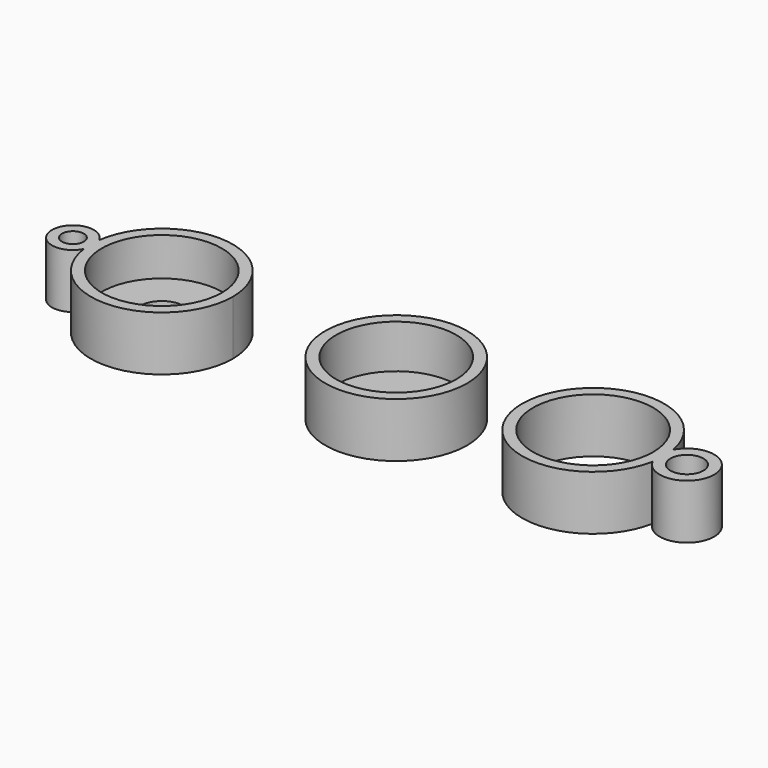
from build123d import *

# Parameters (mm, degrees)
F0_R     = 11
F1_DEPTH = 10
F0_R_2   = 4
F2_DEPTH = 3
F0_R_3   = 2
F3_DEPTH = 10
F4_R     = 13
F4_R_2   = 11
F5_DEPTH = 10
F6_DEPTH = 2
F7_R     = 11
F7_R_2   = 3.012629
F8_DEPTH = 10


with BuildPart() as f1:
    # F0 (on Top) → F1 (new body)
    with BuildSketch(Plane.XY):
        with BuildLine():
            ThreePointArc((-55.811908, -1.758521), (-42.050108, -12.970094), (-29.931396, 0))
            ThreePointArc((-29.931396, 0), (-42.041014, 12.969473), (-55.80943, 1.776582))
            ThreePointArc((-55.80943, 1.776582), (-55.931393, 0.009115), (-55.811908, -1.758521))
        make_face()
        with Locations((-42.931396, 0)):
            Circle(F0_R, mode=Mode.SUBTRACT)
    extrude(amount=F1_DEPTH)

    # F0 (on Top) → F2 (join)
    with BuildSketch(Plane.XY):
        with Locations((-42.931396, 0)):
            Circle(F0_R)
        with Locations((-42.931396, 0)):
            Circle(F0_R_2, mode=Mode.SUBTRACT)
    extrude(amount=F2_DEPTH)

    # F0 (on Top) → F3 (join)
    with BuildSketch(Plane.XY):
        with BuildLine():
            ThreePointArc((-55.811908, -1.758521), (-55.931393, 0.009115), (-55.80943, 1.776582))
            ThreePointArc((-55.80943, 1.776582), (-63.056532, 0.014111), (-55.811908, -1.758521))
        make_face()
        with Locations((-59.218013, 0.011419)):
            Circle(F0_R_3, mode=Mode.SUBTRACT)
    extrude(amount=F3_DEPTH)


with BuildPart() as f5:
    # F4 (on Top) → F5 (new body)
    with BuildSketch(Plane.XY):
        Circle(F4_R)
        Circle(F4_R_2, mode=Mode.SUBTRACT)
    extrude(amount=F5_DEPTH)

    # F4 (on Top) → F6 (join)
    with BuildSketch(Plane.XY):
        Circle(F4_R_2)
    extrude(amount=F6_DEPTH)


with BuildPart() as f8:
    # F7 (on Top) → F8 (new body)
    with BuildSketch(Plane.XY):
        with BuildLine():
            ThreePointArc((48.847508, -2.365263), (49.010131, -1.187598), (49.06449, 0))
            ThreePointArc((49.06449, 0), (49.011149, 1.176448), (48.851563, 2.343241))
            ThreePointArc((48.851563, 2.343241), (23.064495, 0.011196), (48.847508, -2.365263))
        make_face()
        with Locations((36.06449, 0)):
            Circle(F7_R, mode=Mode.SUBTRACT)
        with BuildLine():
            ThreePointArc((48.851563, 2.343241), (49.011149, 1.176448), (49.06449, 0))
            ThreePointArc((49.06449, 0), (49.010131, -1.187598), (48.847508, -2.365263))
            ThreePointArc((48.847508, -2.365263), (58.260596, -0.019116), (48.851563, 2.343241))
        make_face()
        with Locations((53.260598, -0.01481)):
            Circle(F7_R_2, mode=Mode.SUBTRACT)
    extrude(amount=F8_DEPTH)


solid = Compound([f1.part, f5.part, f8.part])
